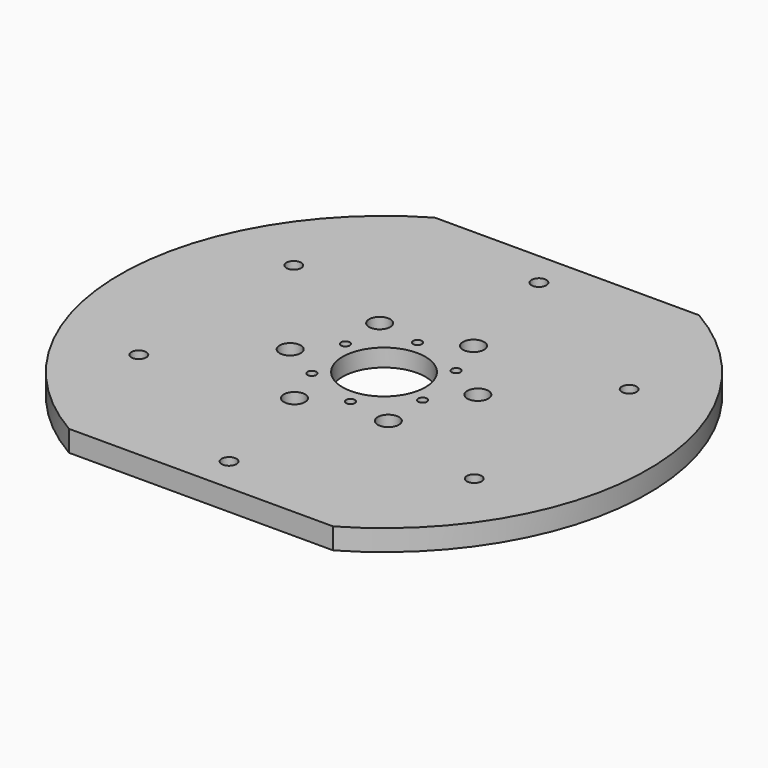
from build123d import *

# Parameters (mm, degrees)
F0_R          = 4.2
F0_R_2        = 23.5
F1_DEPTH      = 12
F3_R          = 40
F4_DEPTH      = 2
F4_DEPTH_BACK = 10
F6_D          = 5
F7_D          = 12


with BuildPart() as f1:
    # F0 (on Top) → F1 (new body)
    with BuildSketch(Plane.XY):
        with BuildLine():
            Line((75, 129.9038105677), (-75, 129.9038105677))
            ThreePointArc((-75, 129.9038105677), (-150, 0), (-75, -129.9038105677))
            Line((-75, -129.9038105677), (75, -129.9038105677))
            ThreePointArc((75, -129.9038105677), (150, 0), (75, 129.9038105677))
        make_face()
        with Locations((0, -110)):
            Circle(F0_R, mode=Mode.SUBTRACT)
        with Locations((-95.2627944163, -55)):
            Circle(F0_R, mode=Mode.SUBTRACT)
        with Locations((95.2627944163, -55)):
            Circle(F0_R, mode=Mode.SUBTRACT)
        with Locations((-95.2627944163, 55)):
            Circle(F0_R, mode=Mode.SUBTRACT)
        Circle(F0_R_2, mode=Mode.SUBTRACT)
        with Locations((0, 110)):
            Circle(F0_R, mode=Mode.SUBTRACT)
        with Locations((95.2627944163, 55)):
            Circle(F0_R, mode=Mode.SUBTRACT)
    extrude(amount=-F1_DEPTH)

    # F3 (on offset) → F4 (cut, two sides)
    with BuildSketch(Plane(origin=(0, 0, -12), x_dir=(1, 0, 0), z_dir=(0, 0, -1))) as f4_sk:
        Circle(F3_R)
    extrude(amount=-F4_DEPTH, mode=Mode.SUBTRACT)
    extrude(f4_sk.sketch, amount=F4_DEPTH_BACK, mode=Mode.SUBTRACT)

    # F6 (through all)
    with Locations(Plane(origin=(0, 0, -12), x_dir=(1, 0, 0), z_dir=(0, 0, -1))):
        with Locations((6.105887852, 31.4120698703), (-24.1507065671, 20.9938889277), (-30.2565944192, -10.4181809426), (-6.105887852, -31.4120698703), (24.1507065671, -20.9938889277), (30.2565944192, 10.4181809426)):
            Hole(F6_D / 2)

    # F7 (through all)
    with Locations(Plane(origin=(0, 0, -12), x_dir=(1, 0, 0), z_dir=(0, 0, -1))):
        with Locations((-30.8347743626, -35.4713502705), (15.3017032595, -44.4393730532), (46.136477622, -8.9680227827), (30.8347743626, 35.4713502705), (-15.3017032595, 44.4393730532), (-46.136477622, 8.9680227827)):
            Hole(F7_D / 2)


solid = f1.part
